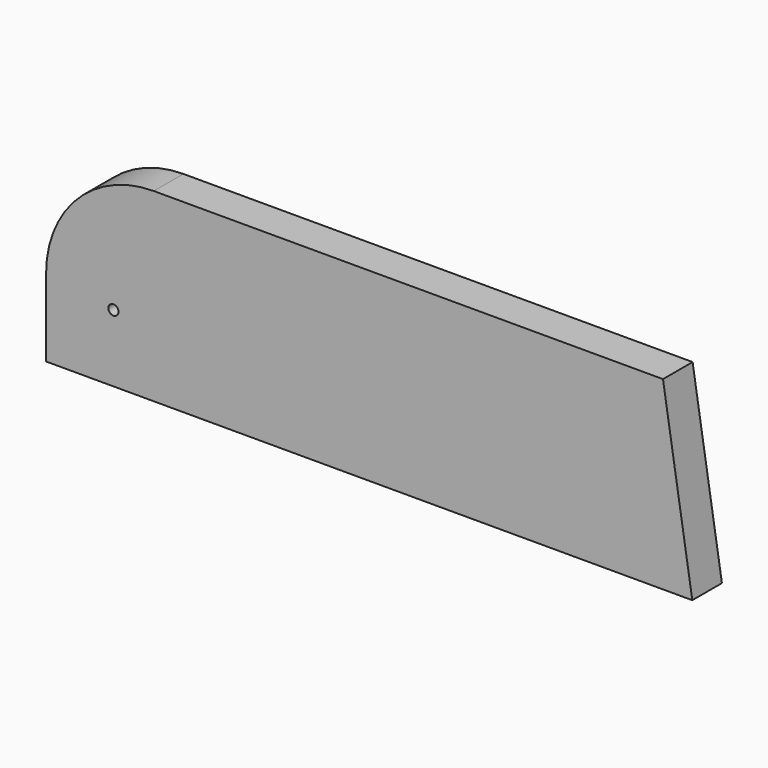
from build123d import *

# Parameters (mm, degrees)
F0_R     = 2.38125
F1_DEPTH = 17.4625


with BuildPart() as f1:
    # F0 (on Front) → F1 (new body)
    with BuildSketch(Plane.XZ):
        with BuildLine():
            Line((-304.8, 0), (0, 0))
            Line((0, 0), (-13.828941, 87.3125))
            Line((-13.828941, 87.3125), (-254, 87.3125))
            ThreePointArc((-254, 87.3125), (-289.921024, 72.433524), (-304.8, 36.5125))
            Line((-304.8, 36.5125), (-304.8, 0))
        make_face()
        with Locations((-273.05, 31.75)):
            Circle(F0_R, mode=Mode.SUBTRACT)
    extrude(amount=F1_DEPTH)


solid = f1.part
